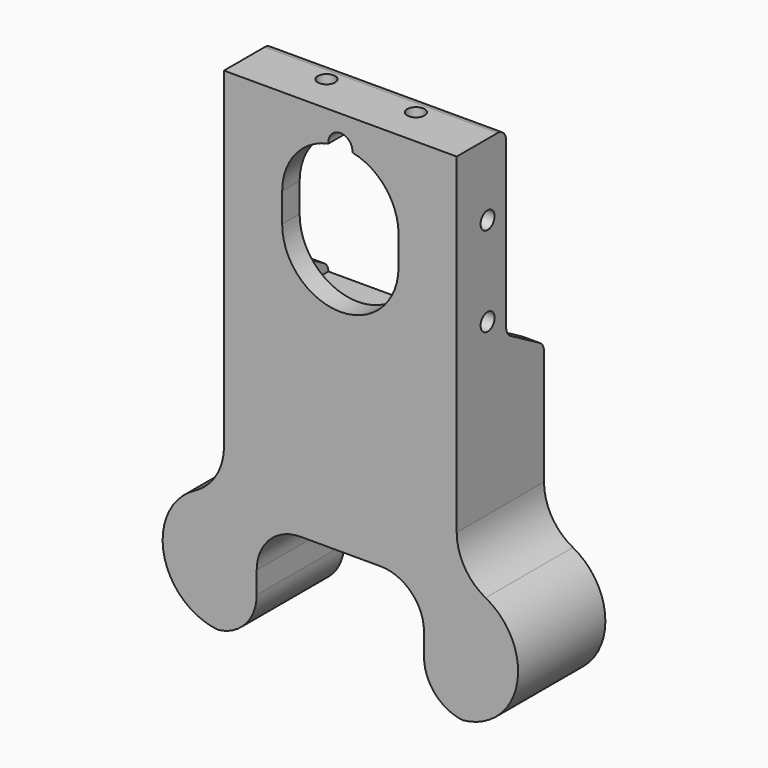
from build123d import *

# Parameters (mm, degrees)
PAD008_DEPTH         = 15
SKETCH021_W          = 27.3
SKETCH021_H          = 27.3
POCKET006_DEPTH      = 12
POCKET007_DEPTH      = 5
SKETCH023_R          = 3.3665
POCKET008_DEPTH      = 68.001
SKETCH024_R          = 1.2
POCKET009_DEPTH      = 2.35
SKETCH026_R          = 1.2
POCKET010_DEPTH      = 33.951
POCKET010_DEPTH_BACK = 61.251
POCKET011_DEPTH      = 63.601
POCKET015_DEPTH      = 15.001
POCKET016_DEPTH      = 15.001


with BuildPart() as part:
    # Sketch020 → Pad008 (new body)
    with BuildSketch(Plane.XZ):
        with BuildLine():
            Line((-47.6, 1.5), (-47.6, 13.5))
            ThreePointArc((-46.1, 15), (-47.1606601718, 14.5606601718), (-47.6, 13.5))
            Line((-46.1, 15), (-23.5, 15))
            ThreePointArc((-23.5, 15), (-18.1966991411, 17.1966991411), (-16, 22.5))
            Line((-16, 22.5), (-16, 68))
            Line((-16, 68), (16, 68))
            Line((16, 68), (16, 22.5))
            ThreePointArc((16, 22.5), (18.1966991411, 17.1966991411), (23.5, 15))
            Line((23.5, 15), (46.1, 15))
            ThreePointArc((47.6, 13.5), (47.1606601718, 14.5606601718), (46.1, 15))
            Line((47.6, 13.5), (47.6, 1.5))
            ThreePointArc((46.1, 0), (47.1606601718, 0.4393398282), (47.6, 1.5))
            Line((46.1, 0), (17.5, 0))
            ThreePointArc((11.5, 6), (13.2573593129, 1.7573593129), (17.5, 0))
            Line((11.5, 9), (11.5, 6))
            ThreePointArc((11.5, 9), (9.7426406871, 13.2426406871), (5.5, 15))
            Line((-5.5, 15), (5.5, 15))
            ThreePointArc((-5.5, 15), (-9.7426406871, 13.2426406871), (-11.5, 9))
            Line((-11.5, 6), (-11.5, 9))
            ThreePointArc((-17.5, 0), (-13.2573593129, 1.7573593129), (-11.5, 6))
            Line((-17.5, 0), (-46.1, 0))
            ThreePointArc((-47.6, 1.5), (-47.1606601718, 0.4393398282), (-46.1, 0))
        make_face()
    extrude(amount=PAD008_DEPTH)

    # Sketch021 (on Face23 of Pad008) → Pocket006 (cut)
    with BuildSketch(Plane(origin=(0, 0, 0), x_dir=(1, 0, 0), z_dir=(0, 1, 0))):
        with Locations((0, -52)):
            Rectangle(SKETCH021_W, SKETCH021_H)
    extrude(amount=-POCKET006_DEPTH, mode=Mode.SUBTRACT)

    # Sketch022 (on Face29 of Pocket006) → Pocket007 (cut)
    with BuildSketch(Plane(origin=(0, -12, 0), x_dir=(1, 0, 0), z_dir=(0, 1, 0))):
        with BuildLine():
            ThreePointArc((-8, -56.0000000001), (-6.2100572838, -61.0433310949), (-1.6412028669, -63.8298437501))
            ThreePointArc((-1.6412028669, -63.8298437501), (0, -65.65), (1.6412028669, -63.8298437501))
            ThreePointArc((1.6412028669, -63.8298437501), (6.2100482063, -61.0433422724), (7.9999999999, -56.0000287985))
            Line((7.9999999999, -56.0000287985), (7.9999999999, -52.0000000001))
            ThreePointArc((8, -52.0000000001), (0, -44.0000000001), (-8, -52.0000000001))
            Line((-8, -52.0000000001), (-8, -56.0000000001))
        make_face()
    extrude(amount=-POCKET007_DEPTH, mode=Mode.SUBTRACT)

    # Sketch023 (on Face22 of Pocket007) → Pocket008 (cut, through all)
    with BuildSketch(Plane(origin=(0, 0, 0), x_dir=(1, 0, 0), z_dir=(0, 0, -1))):
        with Locations((38.1, 7.5)):
            Circle(SKETCH023_R)
        with Locations((-38.1, 7.5)):
            Circle(SKETCH023_R)
    extrude(amount=-POCKET008_DEPTH, mode=Mode.SUBTRACT)

    # Sketch024 (on Face13 of Pocket008) → Pocket009 (cut)
    with BuildSketch(Plane(origin=(0, 0, 68), x_dir=(-1, 0, 0), z_dir=(0, 0, 1))):
        with Locations((-6.15, 9.7)):
            Circle(SKETCH024_R)
        with Locations((6.15, 9.7)):
            Circle(SKETCH024_R)
    extrude(amount=-POCKET009_DEPTH, mode=Mode.SUBTRACT)

    # Sketch026 (on Face27 of Pocket009) → Pocket010 (cut, two sides)
    with BuildSketch(Plane(origin=(-13.65, 0, 0), x_dir=(0, 0, 1), z_dir=(1, 0, 0))) as pocket010_sk:
        with Locations((45.85, 9.7)):
            Circle(SKETCH026_R)
        with Locations((58.15, 9.7)):
            Circle(SKETCH026_R)
    extrude(amount=-POCKET010_DEPTH, mode=Mode.SUBTRACT)
    extrude(pocket010_sk.sketch, amount=POCKET010_DEPTH_BACK, mode=Mode.SUBTRACT)

    # Sketch027 (on Face15 of Pocket010) → Pocket011 (cut, through all)
    with BuildSketch(Plane(origin=(16, 0, 0), x_dir=(0, 0, 1), z_dir=(1, 0, 0))):
        with BuildLine():
            ThreePointArc((66.5, 6.5), (67.5606601718, 6.9393398282), (68, 8))
            Line((68, 8), (68, 0))
            Line((68, 0), (38.35, 0))
            ThreePointArc((38.35, 0), (39.1, 0.2009618943), (39.6490381057, 0.75))
            Line((42.5357894517, 5.75), (39.6490381057, 0.75))
            ThreePointArc((43.8348275573, 6.5), (43.0848275573, 6.2990381057), (42.5357894517, 5.75))
            Line((43.8348275573, 6.5), (66.5, 6.5))
        make_face()
    extrude(amount=-POCKET011_DEPTH, mode=Mode.SUBTRACT)

    # Sketch033 (on Face4 of Pocket011) → Pocket015 (cut, through all)
    with BuildSketch(Plane(origin=(0, 0, 0), x_dir=(1, 0, 0), z_dir=(0, 1, 0))):
        with BuildLine():
            ThreePointArc((19.9705882353, -15.8823529412), (24.185577345, -6.3911056638), (16, 0))
            Line((51, 0), (16, 0))
            Line((51, -22.5), (51, 0))
            Line((16, -22.5), (51, -22.5))
            ThreePointArc((19.9705882353, -15.8823529412), (17.0688030572, -18.6412818343), (16, -22.5))
        make_face()
    extrude(amount=-POCKET015_DEPTH, mode=Mode.SUBTRACT)

    # Sketch034 (on Face4 of Pocket015) → Pocket016 (cut, through all)
    with BuildSketch(Plane(origin=(0, 0, 0), x_dir=(1, 0, 0), z_dir=(0, 1, 0))):
        with BuildLine():
            ThreePointArc((-16, -1e-10), (-24.1855982279, -6.3910932116), (-19.9706006156, -15.8823463383))
            ThreePointArc((-16, -22.5), (-17.0688066666, -18.6412758186), (-19.9706006156, -15.8823463384))
            Line((-16, -22.5), (-51, -22.5))
            Line((-51, -22.5), (-51, -1e-10))
            Line((-51, -1e-10), (-16, -1e-10))
        make_face()
    extrude(amount=-POCKET016_DEPTH, mode=Mode.SUBTRACT)


solid = part.part
